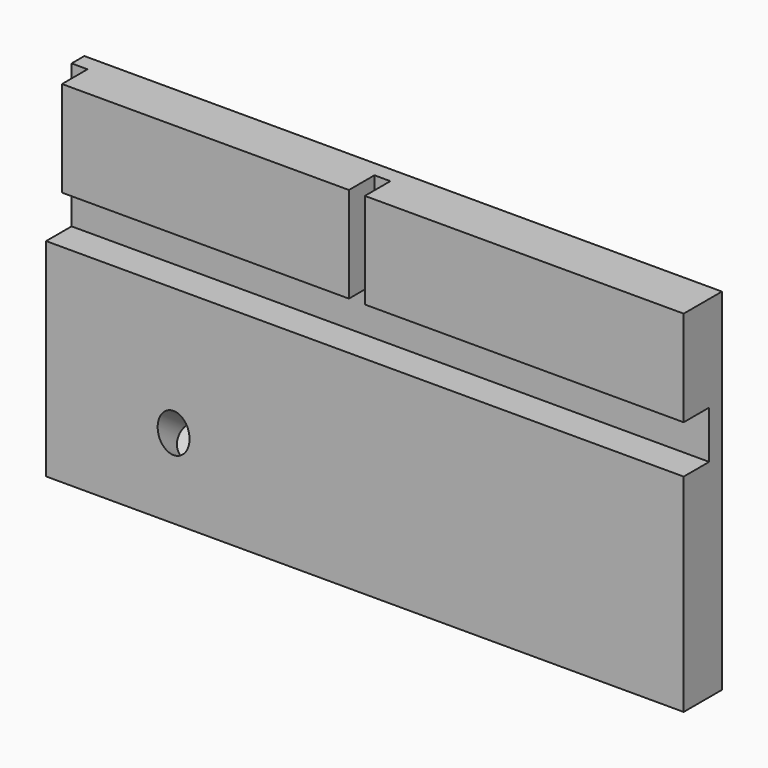
from build123d import *

# Parameters (mm, degrees)
F0_W          = 254
F0_H          = 139.7
F1_DEPTH      = 19.05
F2_W          = 254
F2_H          = 19.05
F3_DEPTH      = 12.7
F4_W          = 6.35
F4_H          = 38.1
F5_DEPTH      = 12.7
F8_R          = 6.35
F9_DEPTH      = 12.7
F9_DEPTH_BACK = 12.7


with BuildPart() as f1:
    # F0 (on Front) → F1 (new body)
    with BuildSketch(Plane.XZ):
        Rectangle(F0_W, F0_H)
    extrude(amount=F1_DEPTH)

    # F2 (on face) → F3 (cut)
    with BuildSketch(Plane.XZ.offset(19.05)):
        with Locations((0, 22.225)):
            Rectangle(F2_W, F2_H)
        with Locations((0, 22.225)):
            Rectangle(F2_W, F2_H)
    extrude(amount=-F3_DEPTH, mode=Mode.SUBTRACT)

    # F4 (on face) → F5 (cut)
    with BuildSketch(Plane.XZ.offset(19.05)):
        with Locations((-3.175, 50.8)):
            Rectangle(F4_W, F4_H)
        with Locations((-123.825, 50.8)):
            Rectangle(F4_W, F4_H)
    extrude(amount=-F5_DEPTH, mode=Mode.SUBTRACT)

    # F8 (on face) → F9 (cut, two sides)
    with BuildSketch(Plane(origin=(0, 5.1184025608, -3.5839440567), x_dir=(-1, 0, 0), z_dir=(0, 0.8191520443, -0.5735764364))) as f9_sk:
        with Locations((76.2, -42.1363239999)):
            Circle(F8_R)
        with Locations((76.2, -42.1363239999)):
            Circle(F8_R)
        with Locations((76.2, -42.1363239999)):
            Circle(F8_R)
        with Locations((76.2, -42.1363239999)):
            Circle(F8_R)
        with Locations((76.2, -42.1363239999)):
            Circle(F8_R)
    extrude(amount=F9_DEPTH, mode=Mode.SUBTRACT)
    extrude(f9_sk.sketch, amount=-F9_DEPTH_BACK, mode=Mode.SUBTRACT)


solid = f1.part
